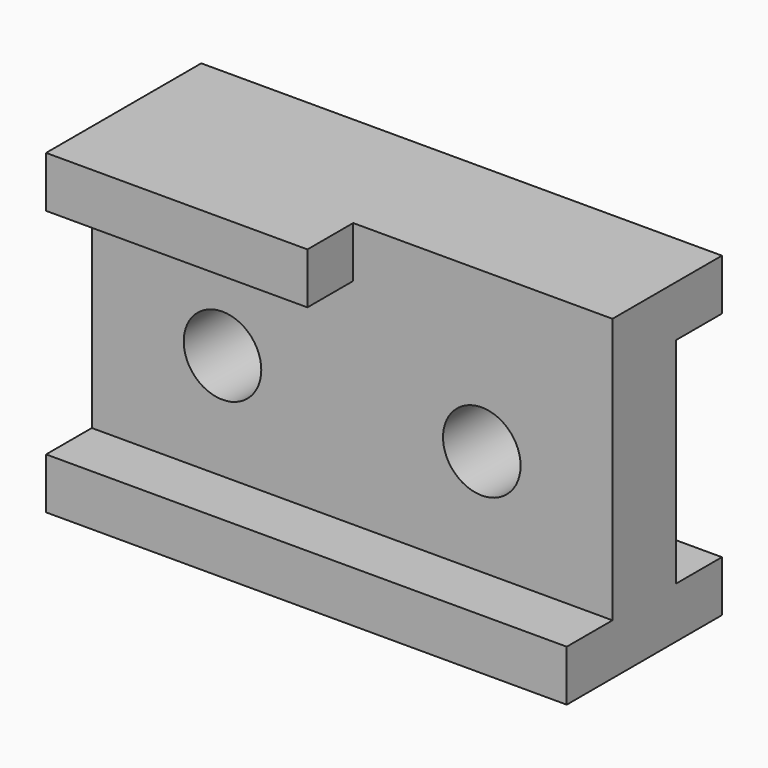
from build123d import *

# Parameters (mm, degrees)
F0_W     = 255
F0_H     = 155
F0_R     = 19
F1_DEPTH = 95
F2_R     = 19
F2_W     = 50
F2_H     = 105
F2_W_2   = 127
F2_H_2   = 25
F3_DEPTH = 28
F4_W     = 41.4112506824
F4_H     = 105
F4_W_2   = 28
F5_DEPTH = 255.001


with BuildPart() as f1:
    # F0 (on Front) → F1 (new body)
    with BuildSketch(Plane.XZ):
        with Locations((127.5, 77.5)):
            Rectangle(F0_W, F0_H)
        with Locations((64, 77)):
            Circle(F0_R, mode=Mode.SUBTRACT)
        with Locations((191, 77)):
            Circle(F0_R, mode=Mode.SUBTRACT)
    extrude(amount=F1_DEPTH)

    # F2 (on face) → F3 (cut)
    with BuildSketch(Plane.XZ.offset(95)):
        Polygon((128, 130), (0, 130), (0, 25), (255, 25), (255, 130), align=None)
        with Locations((64, 77)):
            Circle(F2_R, mode=Mode.SUBTRACT)
        with Locations((191, 77)):
            Circle(F2_R, mode=Mode.SUBTRACT)
        with Locations((-25, 77.5)):
            Rectangle(F2_W, F2_H)
        with Locations((280, 77.5)):
            Rectangle(F2_W, F2_H)
        Polygon((255, 155), (255, 130), (305, 130), (305, 190.759062767), (128, 190.759062767), (128, 155), align=None)
        with Locations((191.5, 142.5)):
            Rectangle(F2_W_2, F2_H_2)
    extrude(amount=-F3_DEPTH, mode=Mode.SUBTRACT)

    # F4 (on face) → F5 (cut, through all)
    with BuildSketch(Plane.YZ.offset(255)):
        with Locations((20.7056253412, 77.5)):
            Rectangle(F4_W, F4_H)
        with Locations((-14, 77.5)):
            Rectangle(F4_W_2, F4_H)
    extrude(amount=-F5_DEPTH, mode=Mode.SUBTRACT)


solid = f1.part
